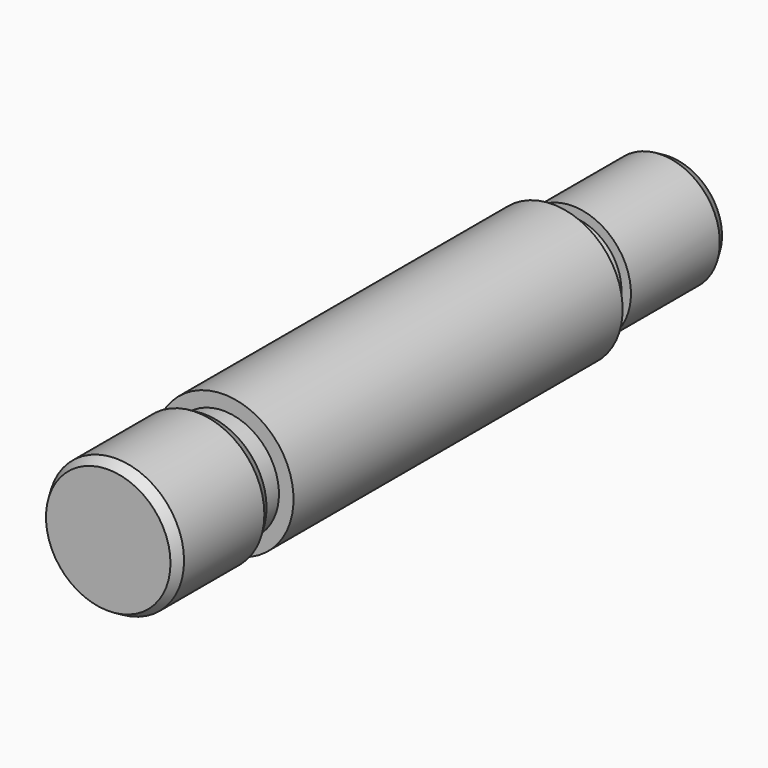
from build123d import *

# Parameters (mm, degrees)
F0_R       = 12.1285
F1_DEPTH   = 21.4376
F2_SIZE2   = 1.7597636205
F2_SIZE    = 1.016
F2_2_SIZE2 = 1.7597636205
F2_2_SIZE  = 1.016
F3_R       = 9.8679
F4_DEPTH   = 4.318
F5_R       = 12.4714
F6_DEPTH   = 73.4314
F7_R       = 8.7122
F8_DEPTH   = 4.4196
F9_R       = 10.414
F10_DEPTH  = 21.59
F11_SIZE2  = 1.7597636205
F11_SIZE   = 1.016


with BuildPart() as f1:
    # F0 (on Front) → F1 (new body)
    with BuildSketch(Plane.XZ):
        Circle(F0_R)
    extrude(amount=F1_DEPTH)

    # F2
    f2_edges = [f1.edges().sort_by_distance(p)[0] for p in [
        (-12.1285, -21.4376, 0),
    ]]
    f2_side = f1.faces().sort_by_distance((0, -21.4376, 0))[0]
    chamfer(f2_edges, length=F2_SIZE, length2=F2_SIZE2, reference=f2_side)

    # F2#2
    f2_2_edges = [f1.edges().sort_by_distance(p)[0] for p in [
        (-12.1285, 0, 0),
    ]]
    f2_2_side = f1.faces().sort_by_distance((0, 0, 0))[0]
    chamfer(f2_2_edges, length=F2_2_SIZE, length2=F2_2_SIZE2, reference=f2_2_side)

    # F3 (on face) → F4 (join)
    with BuildSketch(Plane(origin=(0, 0, 0), x_dir=(-1, 0, 0), z_dir=(0, 1, 0))):
        Circle(F3_R)
    extrude(amount=F4_DEPTH)

    # F5 (on face) → F6 (join)
    with BuildSketch(Plane(origin=(0, 4.318, 0), x_dir=(-1, 0, 0), z_dir=(0, 1, 0))):
        Circle(F5_R)
    extrude(amount=F6_DEPTH)

    # F7 (on face) → F8 (join)
    with BuildSketch(Plane(origin=(0, 77.7494, 0), x_dir=(-1, 0, 0), z_dir=(0, 1, 0))):
        Circle(F7_R)
    extrude(amount=F8_DEPTH)

    # F9 (on face) → F10 (join)
    with BuildSketch(Plane(origin=(0, 82.169, 0), x_dir=(-1, 0, 0), z_dir=(0, 1, 0))):
        Circle(F9_R)
    extrude(amount=F10_DEPTH)

    # F11
    f11_edges = [f1.edges().sort_by_distance(p)[0] for p in [
        (10.414, 103.759, 0),
    ]]
    f11_side = f1.faces().sort_by_distance((0, 103.759, 0))[0]
    chamfer(f11_edges, length=F11_SIZE, length2=F11_SIZE2, reference=f11_side)


solid = f1.part
